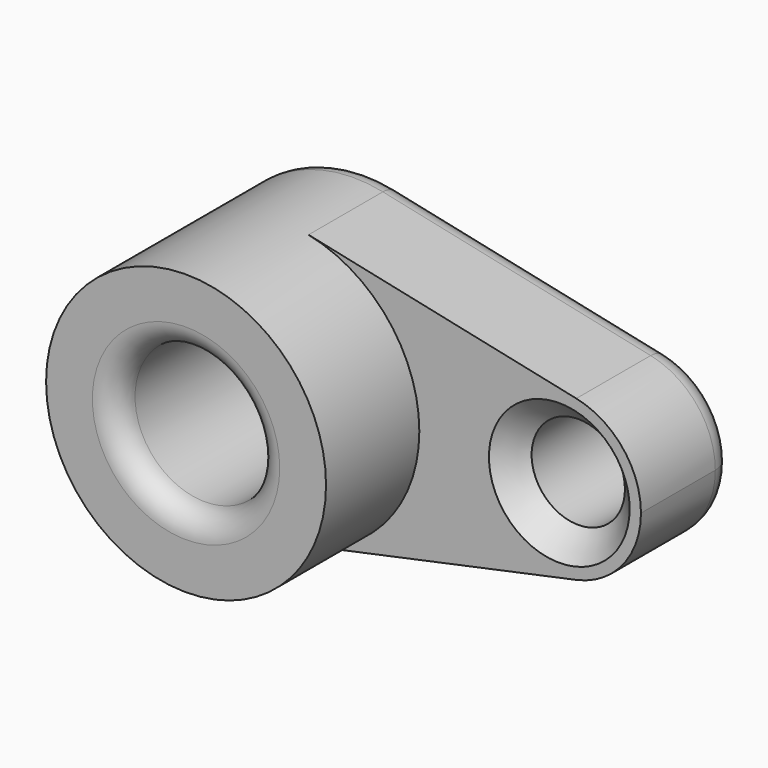
from build123d import *

# Parameters (mm, degrees)
F0_R     = 15
F0_R_2   = 10
F1_DEPTH = 25
F2_DEPTH = 50
F3_R     = 5.08
F4_SIZE  = 5.08


with BuildPart() as f1:
    # F0 (on Front) → F1 (new body)
    with BuildSketch(Plane.XZ):
        with BuildLine():
            ThreePointArc((-48.8587082131, -29.3417364858), (-31.7902605804, -18.8745860882), (-25.1087082131, 0))
            ThreePointArc((-25.1087082131, 0), (-31.7902605804, 18.8745860882), (-48.8587082131, 29.3417364858))
            ThreePointArc((-48.8587082131, 29.3417364858), (-85.1087082131, 0), (-48.8587082131, -29.3417364858))
        make_face()
        with Locations((-55.1087082131, 0)):
            Circle(F0_R, mode=Mode.SUBTRACT)
        with BuildLine():
            ThreePointArc((-48.8587082131, 29.3417364858), (-31.7902605804, 18.8745860882), (-25.1087082131, 0))
            ThreePointArc((-25.1087082131, 0), (-31.7902605804, -18.8745860882), (-48.8587082131, -29.3417364858))
            Line((-48.8587082131, -29.3417364858), (8.5371251202, -17.11601295))
            ThreePointArc((8.5371251202, -17.11601295), (-12.6087082131, 0), (8.5371251202, 17.11601295))
            Line((8.5371251202, 17.11601295), (-48.8587082131, 29.3417364858))
        make_face()
        with BuildLine():
            ThreePointArc((22.3912917869, 0), (18.4937195726, 11.0101752181), (8.5371251202, 17.11601295))
            ThreePointArc((8.5371251202, 17.11601295), (-12.6087082131, 0), (8.5371251202, -17.11601295))
            ThreePointArc((8.5371251202, -17.11601295), (18.4937195726, -11.0101752181), (22.3912917869, 0))
        make_face()
        with Locations((4.8912917869, 0)):
            Circle(F0_R_2, mode=Mode.SUBTRACT)
    extrude(amount=F1_DEPTH)

    # F0 (on Front) → F2 (join)
    with BuildSketch(Plane.XZ):
        with BuildLine():
            ThreePointArc((-48.8587082131, -29.3417364858), (-31.7902605804, -18.8745860882), (-25.1087082131, 0))
            ThreePointArc((-25.1087082131, 0), (-31.7902605804, 18.8745860882), (-48.8587082131, 29.3417364858))
            ThreePointArc((-48.8587082131, 29.3417364858), (-85.1087082131, 0), (-48.8587082131, -29.3417364858))
        make_face()
        with Locations((-55.1087082131, 0)):
            Circle(F0_R, mode=Mode.SUBTRACT)
    extrude(amount=F2_DEPTH)

    # F3
    f3_edges = [f1.edges().sort_by_distance(p)[0] for p in [
        (-70.108708, -50, 0),
        (-20.160792, 0, -23.228875),
    ]]
    fillet(f3_edges, radius=F3_R)

    # F4
    f4_edges = [f1.edges().sort_by_distance(p)[0] for p in [
        (-38.620811, -48.512102, 0),
        (-70.108708, -44.92, 0),
        (-75.188708, -50, 0),
        (-5.108708, -25, 0),
    ]]
    chamfer(f4_edges, length=F4_SIZE)


solid = f1.part
